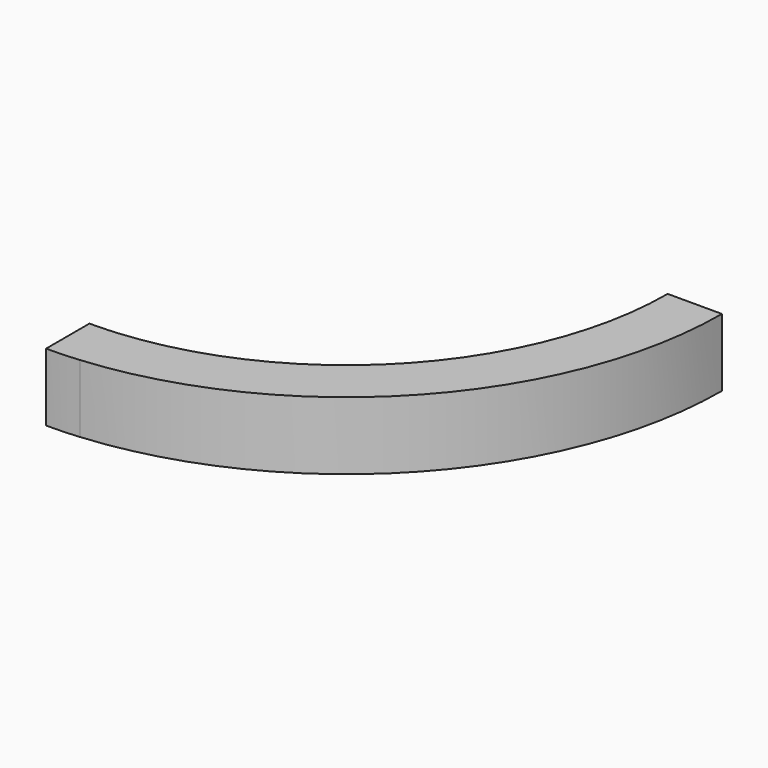
from build123d import *

# Parameters (mm, degrees)
F1_ANGLE       = 90
F2_W           = 40
F2_H           = 50
F3_ANGLE_BACK  = 5
F3_ANGLE       = 5
F4_W           = 40
F4_H           = 50
F5_ANGLE_START = 355
F5_ANGLE       = 5


with BuildPart() as f1:
    # F0 (on Front) → F1 (revolve)
    with BuildSketch(Plane.XZ):
        with BuildLine():
            Line((32, 25), (-8, 25))
            Line((-8, 25), (-8, 12.6885775404))
            ThreePointArc((-8, 12.6885775404), (15, 0), (-8, -12.6885775404))
            Line((-8, -12.6885775404), (-8, -25))
            Line((-8, -25), (32, -25))
            Line((32, -25), (32, 25))
        make_face()
    revolve(axis=Axis((-245, 0, -6.2683299184), (0, 0, -1)), revolution_arc=F1_ANGLE)

    # F2 (on face) → F3 (revolve)
    with BuildSketch(Plane(origin=(0, 0, 0), x_dir=(-1, 0, 0), z_dir=(0, 1, 0)), mode=Mode.PRIVATE) as f3_sk:
        with Locations((-12, 0)):
            Rectangle(F2_W, F2_H)
    revolve(f3_sk.sketch.rotate(Axis((-245, 0, 3.9664339274), (0, 0, 1)), -F3_ANGLE_BACK), axis=Axis((-245, 0, 3.9664339274), (0, 0, 1)), revolution_arc=F3_ANGLE)

    # F4 (on face) → F5 (revolve)
    with BuildSketch(Plane(origin=(-245, 0, 0), x_dir=(0, -1, 0), z_dir=(-1, 0, 0)), mode=Mode.PRIVATE) as f5_sk:
        with Locations((257, 0)):
            Rectangle(F4_W, F4_H)
    revolve(f5_sk.sketch.rotate(Axis((-245, 0, -1.3688886538), (0, 0, -1)), F5_ANGLE_START), axis=Axis((-245, 0, -1.3688886538), (0, 0, -1)), revolution_arc=F5_ANGLE)


solid = f1.part
